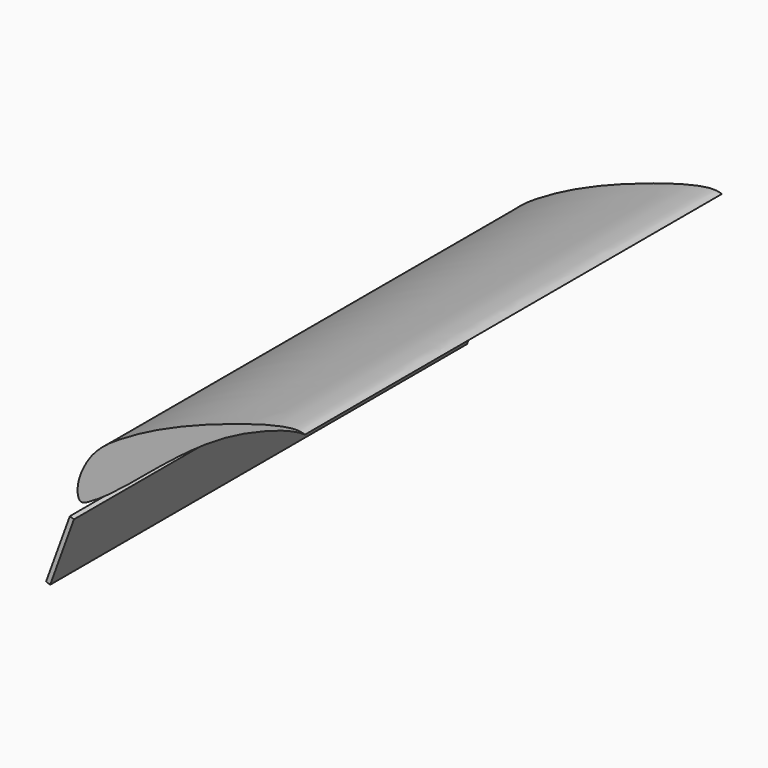
from build123d import *

# Parameters (mm, degrees)
F1_DEPTH = 1524
F2_DEPTH = 1524


with BuildPart() as f1:
    # F0 (on Front) → F1 (new body)
    with BuildSketch(Plane.XZ):
        with BuildLine():
            add(Edge.make_bspline(
                [(745.3748324074, 629.1035638293), (745.4216902832, 628.8405459982), (739.2887902734, 628.9710743177), (731.3917521008, 628.7042108582), (720.3795613417, 627.5227386746), (708.806749198, 625.3231644681), (689.5782783724, 620.9358866865), (668.9194171537, 614.5267352997), (643.5951404208, 605.9207737197), (610.1808330782, 592.6459785395), (569.461659663, 575.3392927099), (529.6932712518, 554.3383245467), (508.4808720603, 543.2568158537), (449.7722963652, 506.8438425523), (419.806046669, 485.3246484224), (394.9618822581, 467.1121784924), (372.2491484362, 449.9689110631), (351.3080900327, 433.283632572), (330.4203208672, 417.1511217504), (309.1911797185, 399.5867727388), (287.087841487, 381.3522844318), (266.5749722695, 364.7016229047), (245.5256681812, 346.9463519314), (227.2750973673, 331.8571878866), (202.9317386259, 312.0221924997), (183.5533853907, 297.4535118747), (161.9934934304, 281.4585201086), (161.1357848583, 280.8368291929), (145.0938112368, 269.7694064758), (126.1007774361, 257.7306075865), (112.1879249685, 249.3327967085), (103.7250080196, 245.1823602806), (97.2936579564, 242.4570742336), (91.7634559758, 242.3697774308), (87.0121127171, 244.3174939327), (84.0057216302, 247.5367954557), (80.6276574142, 257.5352000388), (79.5649723286, 275.2081847058), (84.0129594976, 300.4829130191), (94.2693591686, 328.0251099503), (111.8875279359, 359.9204808486), (132.2285967465, 386.1303276247), (164.7899634987, 415.1718106271), (199.1491014392, 438.2704460193), (269.3123170164, 479.3482086075), (336.184034516, 511.6029973471), (394.7868035292, 536.9160061965), (449.3880877084, 558.5256812328), (497.1012120491, 574.3998396109), (534.2118494372, 588.253487988), (579.7309409408, 602.4656542048), (611.9412300937, 612.2996429136), (651.1556953163, 622.5595711374), (669.7321699335, 626.542214838), (689.5576349958, 630.2792159319), (707.1531641153, 632.9457761479), (727.8613117878, 633.2343467683), (736.0753176052, 631.2490690235), (745.31524466, 629.438035672), (745.3748324074, 629.1035638293)],
                knots=[0, 0, 0, 0, 0.0077540127, 0.0183235174, 0.0297342833, 0.0417696281, 0.0571750222, 0.0735055553, 0.0914534427, 0.112369193, 0.1361092576, 0.1590243467, 0.1766628708, 0.2053673812, 0.2272552725, 0.246254088, 0.264890502, 0.2829535494, 0.3008700037, 0.3192504254, 0.3379417268, 0.3560126107, 0.3741818526, 0.3913586302, 0.4106126918, 0.4291096123, 0.4461786952, 0.4500507258, 0.4646507618, 0.4821904919, 0.4961438347, 0.5067661008, 0.5158507219, 0.5239614652, 0.531639171, 0.5387000489, 0.5496557769, 0.5643802525, 0.582009162, 0.6010851571, 0.6220277174, 0.6423195621, 0.664921609, 0.6875946603, 0.7189697855, 0.7495583208, 0.7774003497, 0.8042270962, 0.8288185518, 0.8509858223, 0.8748115823, 0.8956643892, 0.9175892988, 0.9329902971, 0.9483078214, 0.9634409047, 0.9789694328, 0.990139456, 1, 1, 1, 1], degree=3))
        make_face()
    extrude(amount=F1_DEPTH)


with BuildPart() as f2:
    # F0 (on Front) → F2 (new body)
    with BuildSketch(Plane.XZ):
        Polygon((-11.934096284, 4.3436558202), (0, 0), (69.4984931238, 190.9455405437), (57.5643968398, 195.2891963639), align=None)
    extrude(amount=F2_DEPTH)


solid = Compound([f1.part, f2.part])
